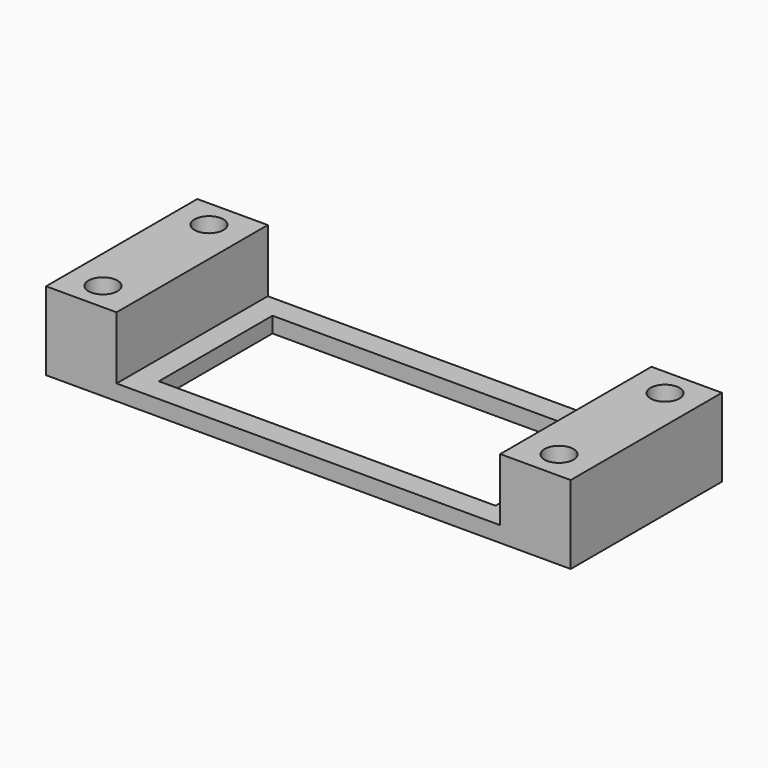
from build123d import *

# Parameters (mm, degrees)
F1_DEPTH = 2
F0_W     = 9
F0_H     = 12.07
F0_R     = 1.85
F2_DEPTH = 10


with BuildPart() as f1:
    # F0 (on Top) → F1 (new body)
    with BuildSketch(Plane.XY):
        Polygon((-21.5, -9.07), (-21.5, 0), (-24.5, 0), (-24.5, -12.07), (0, -12.07), (0, -9.07), align=None)
    extrude(amount=F1_DEPTH)

    # F0 (on Top) → F2 (join)
    with BuildSketch(Plane.XY):
        with Locations((-29, -6.035)):
            Rectangle(F0_W, F0_H)
        with Locations((-29.12242, -8.461017)):
            Circle(F0_R, mode=Mode.SUBTRACT)
    extrude(amount=F2_DEPTH)

    # F3: F1 across face


with BuildPart() as f1_1:
    add(f1.part)
    add(f1.part.mirror(Plane(origin=(-28.625, 0, 4.75), x_dir=(-1, 0, 0), z_dir=(0, 1, 0))))

    # F4: F1 across plane


with BuildPart() as f1_2:
    add(f1_1.part)
    add(f1_1.part.mirror(Plane.YZ))


solid = f1_2.part
